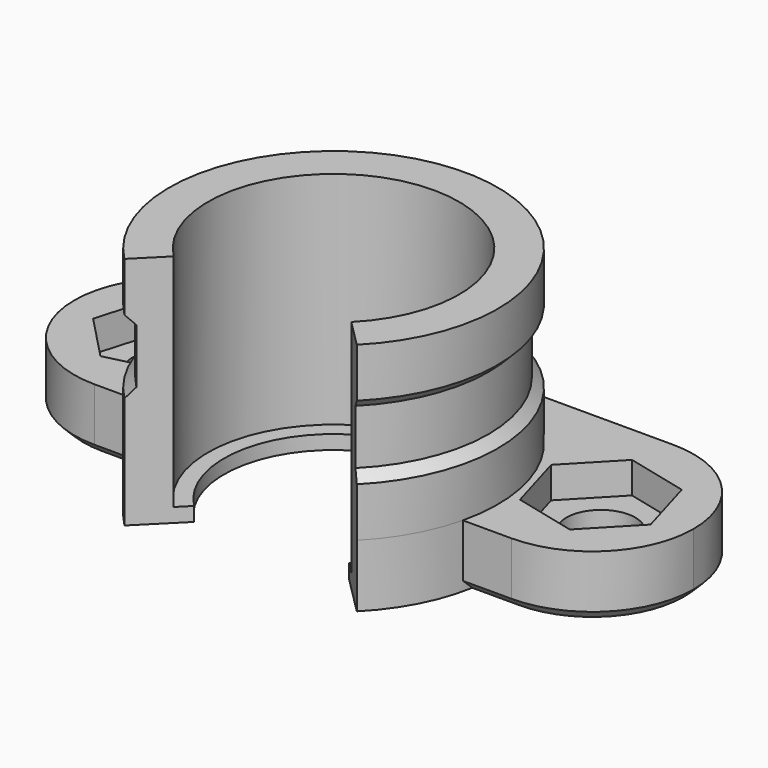
from build123d import *

# Parameters (mm, degrees)
SKETCH_R     = 2.2
PAD_DEPTH    = 4
PAD001_DEPTH = 11
POCKET_DEPTH = 2
FILLET_R     = 6.46
CHAMFER_SIZE = 0.6
PAD002_DEPTH = 0.9


with BuildPart() as revolution:
    # Sketch002 → Revolution (revolve)
    with BuildSketch(Plane.XZ):
        Polygon((9.9, 11.25), (10.5, 11.85), (10.5, 7.15), (9.9, 7.75), align=None)
    revolve(axis=Axis((0, 0, 0), (0, 0, 1)))


with BuildPart() as pad002:
    # Sketch → Pad (new body)
    with BuildSketch(Plane.XY):
        with BuildLine():
            Line((-10.212408, -2.440639), (-19.784288, -2.440639))
            Line((-19.784288, -2.440639), (-19.784288, 10.5))
            Line((19.784288, 10.5), (-19.784288, 10.5))
            Line((19.784288, -2.440639), (19.784288, 10.5))
            Line((10.212408, -2.440639), (19.784288, -2.440639))
            ThreePointArc((7.424621, -7.424621), (9.163854, -5.125795), (10.212408, -2.440639))
            Line((5.674532, -5.674532), (7.424621, -7.424621))
            ThreePointArc((5.674532, -5.674532), (0, 8.025), (-5.674532, -5.674532))
            Line((-5.674532, -5.674532), (-7.424621, -7.424621))
            ThreePointArc((-10.212408, -2.440639), (-9.163854, -5.125795), (-7.424621, -7.424621))
        make_face()
        with Locations((13.859288, 4.029681)):
            Circle(SKETCH_R, mode=Mode.SUBTRACT)
        with Locations((-13.859288, 4.029681)):
            Circle(SKETCH_R, mode=Mode.SUBTRACT)
    extrude(amount=PAD_DEPTH)

    # Sketch001 → Pad001 (new body)
    with BuildSketch(Plane.XY.offset(4)):
        with BuildLine():
            ThreePointArc((5.674532, -5.674532), (0, 8.025), (-5.674532, -5.674532))
            Line((-5.674532, -5.674532), (-7.424621, -7.424621))
            ThreePointArc((7.424621, -7.424621), (0, 10.5), (-7.424621, -7.424621))
            Line((5.674532, -5.674532), (7.424621, -7.424621))
        make_face()
    extrude(amount=PAD001_DEPTH)

    # Cut: cut Revolution
    add(revolution.part, mode=Mode.SUBTRACT)

    # Sketch003 → Pocket (cut)
    with BuildSketch(Plane.XY.offset(4)):
        Polygon((17.812321, 3.059611), (16.675909, 6.968072), (12.722877, 7.938142), (9.906256, 4.99975), (11.042667, 1.091289), (14.995699, 0.121219), align=None)
        Polygon((-17.812321, 3.059611), (-14.995699, 0.121219), (-11.042667, 1.091289), (-9.906256, 4.99975), (-12.722877, 7.938142), (-16.675909, 6.968072), align=None)
    extrude(amount=-POCKET_DEPTH, mode=Mode.SUBTRACT)

    # Fillet
    fillet_edges = [pad002.edges().sort_by_distance(p)[0] for p in [
        (19.784288, -2.440639, 2),
        (19.784288, 10.5, 2),
        (-19.784288, 10.5, 2),
        (-19.784288, -2.440639, 2),
    ]]
    fillet(fillet_edges, radius=FILLET_R)

    # Chamfer
    chamfer_edges = [pad002.edges().sort_by_distance(p)[0] for p in [
        (0, 10.5, 0),
        (17.892198, 8.60791, 0),
        (-17.892198, 8.60791, 0),
    ]]
    chamfer(chamfer_edges, length=CHAMFER_SIZE)

    # Sketch004 → Pad002 (new body)
    with BuildSketch(Plane(origin=(0, 0, 0), x_dir=(1, 0, 0), z_dir=(0, 0, -1))):
        with BuildLine():
            ThreePointArc((-4.949747, 4.949747), (0, -7), (4.949747, 4.949747))
            Line((4.949747, 4.949747), (5.674532, 5.674532))
            ThreePointArc((-5.674532, 5.674532), (0, -8.025), (5.674532, 5.674532))
            Line((-5.674532, 5.674532), (-4.949747, 4.949747))
        make_face()
    extrude(amount=-PAD002_DEPTH)


solid = pad002.part
